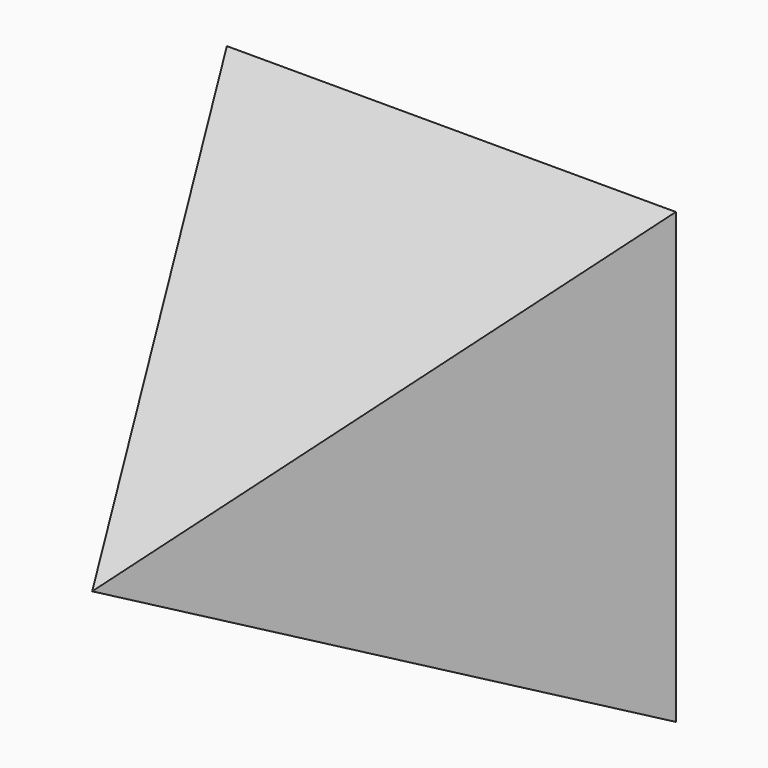
from build123d import *

# Parameters (mm, degrees)
F0_W     = 44.45
F0_H     = 44.45
F1_DEPTH = 44.45
F4_DEPTH = 44.451
F5_DEPTH = 44.451


with BuildPart() as f1:
    # F0 (on Front) → F1 (new body)
    with BuildSketch(Plane.XZ):
        Rectangle(F0_W, F0_H)
    extrude(amount=F1_DEPTH)

    # F2 (on face) → F4 (cut, through all)
    with BuildSketch(Plane(origin=(-22.225, 0, 0), x_dir=(0, -1, 0), z_dir=(-1, 0, 0))):
        Polygon((44.45, 22.225), (0, 22.225), (44.45, 0), align=None)
        Polygon((44.45, -22.225), (44.45, 0), (0, -22.225), align=None)
    extrude(amount=-F4_DEPTH, mode=Mode.SUBTRACT)

    # F3 (on face) → F5 (cut, through all)
    with BuildSketch(Plane(origin=(0, 0, -22.225), x_dir=(1, 0, 0), z_dir=(0, 0, -1))):
        Polygon((22.225, 44.45), (0, 44.45), (22.225, 0), align=None)
        Polygon((-22.225, 44.45), (-22.225, 0), (0, 44.45), align=None)
    extrude(amount=-F5_DEPTH, mode=Mode.SUBTRACT)


solid = f1.part
